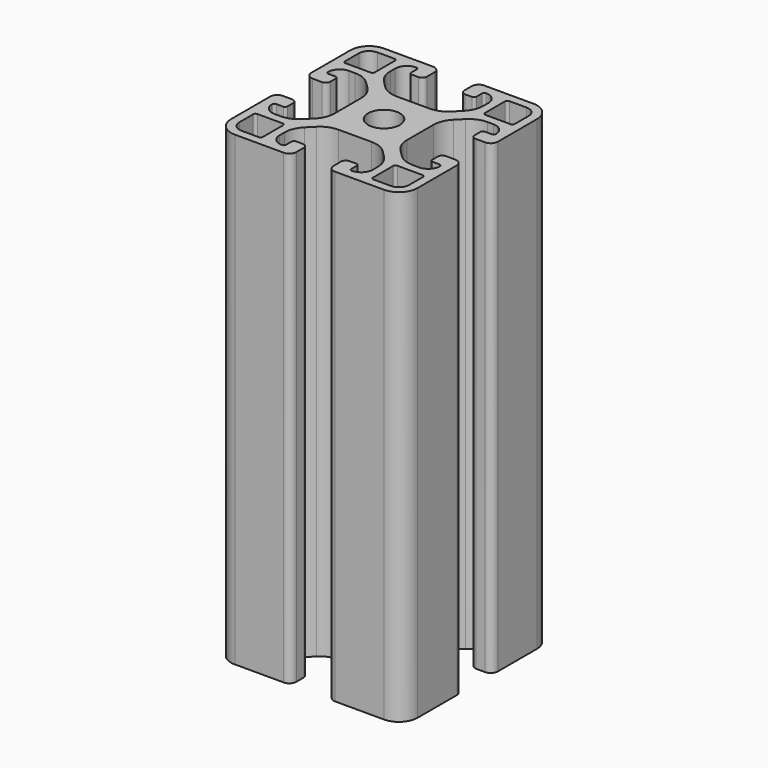
from build123d import *

# Parameters (mm, degrees)
PAD_DEPTH          = 100
POCKET_DEPTH       = 329.783506
POLARPATTERN_COUNT = 4
SKETCH002_R        = 3.4
POCKET001_DEPTH    = 100.001


with BuildPart() as part:
    # Sketch → Pad (new body)
    with BuildSketch(Plane.XY):
        with BuildLine():
            Line((-16, 20), (16, 20))
            ThreePointArc((20, 16), (18.828427, 18.828427), (16, 20))
            Line((20, 16), (20, -16))
            ThreePointArc((16, -20), (18.828427, -18.828427), (20, -16))
            Line((16, -20), (-16, -20))
            ThreePointArc((-20, -16), (-18.828427, -18.828427), (-16, -20))
            Line((-20, -16), (-20, 16))
            ThreePointArc((-16, 20), (-18.828427, 18.828427), (-20, 16))
        make_face()
    extrude(amount=PAD_DEPTH)

    # Sketch001 (on Face10 of Pad) → Pocket (cut, through all)
    with BuildSketch(Plane.XY.offset(100)):
        with BuildLine():
            Line((-16, 18.2), (-12.3, 18.2))
            ThreePointArc((-11.8, 17.7), (-11.946447, 18.053553), (-12.3, 18.2))
            Line((-11.8, 17.7), (-11.8, 12.3))
            ThreePointArc((-12.3, 11.8), (-11.946447, 11.946447), (-11.8, 12.3))
            Line((-12.3, 11.8), (-17.7, 11.8))
            ThreePointArc((-18.2, 12.3), (-18.053553, 11.946447), (-17.7, 11.8))
            Line((-18.2, 12.3), (-18.2, 16))
            ThreePointArc((-16, 18.2), (-17.555635, 17.555635), (-18.2, 16))
        make_face()
        with BuildLine():
            ThreePointArc((-4, 18.5), (-4.43934, 19.56066), (-5.5, 20))
            Line((5.5, 20), (-5.5, 20))
            ThreePointArc((5.5, 20), (4.43934, 19.56066), (4, 18.5))
            Line((4, 16.5), (4, 18.5))
            ThreePointArc((4, 16.5), (4.292893, 15.792893), (5, 15.5))
            Line((6.5, 15.5), (5, 15.5))
            ThreePointArc((6.5, 15.5), (6.853553, 15.646447), (7, 16))
            Line((7, 17.5), (7, 16))
            ThreePointArc((7.5, 18), (7.146447, 17.853553), (7, 17.5))
            ThreePointArc((10, 15.5), (9.267767, 17.267767), (7.5, 18))
            Line((10, 14.19), (10, 15.5))
            ThreePointArc((8.535534, 10.654466), (9.619398, 12.276583), (10, 14.19))
            Line((7.095534, 9.214466), (8.535534, 10.654466))
            ThreePointArc((3.56, 7.75), (5.473417, 8.130602), (7.095534, 9.214466))
            Line((-3.56, 7.75), (3.56, 7.75))
            ThreePointArc((-7.095534, 9.214466), (-5.473417, 8.130602), (-3.56, 7.75))
            Line((-8.535534, 10.654466), (-7.095534, 9.214466))
            ThreePointArc((-10, 14.19), (-9.619398, 12.276583), (-8.535534, 10.654466))
            Line((-10, 15.5), (-10, 14.19))
            ThreePointArc((-7.5, 18), (-9.267767, 17.267767), (-10, 15.5))
            ThreePointArc((-7, 17.5), (-7.146447, 17.853553), (-7.5, 18))
            Line((-7, 16), (-7, 17.5))
            ThreePointArc((-7, 16), (-6.853553, 15.646447), (-6.5, 15.5))
            Line((-5, 15.5), (-6.5, 15.5))
            ThreePointArc((-5, 15.5), (-4.292893, 15.792893), (-4, 16.5))
            Line((-4, 18.5), (-4, 16.5))
        make_face()
    pocket = extrude(amount=-POCKET_DEPTH, mode=Mode.SUBTRACT)

    # PolarPattern: Pocket ×4 about axis
    polarpattern_axis = Axis((0, 0, 100), (0, 0, 1))
    for i in range(1, POLARPATTERN_COUNT):
        add(pocket.rotate(polarpattern_axis, i * 360 / POLARPATTERN_COUNT), mode=Mode.SUBTRACT)

    # Sketch002 (on Face4 of PolarPattern) → Pocket001 (cut, through all)
    with BuildSketch(Plane.XY.offset(100)):
        Circle(SKETCH002_R)
    extrude(amount=-POCKET001_DEPTH, mode=Mode.SUBTRACT)


solid = part.part
